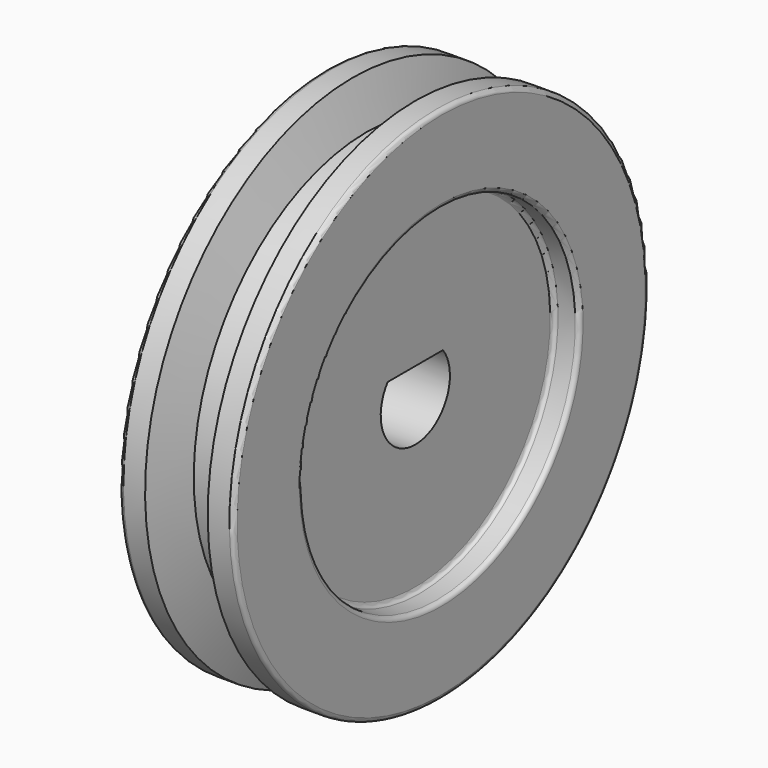
from build123d import *

# Parameters (mm, degrees)
F4_DEPTH = 9.1948


with BuildPart() as f2:
    # F0 (on Front) → F2 (revolve)
    with BuildSketch(Plane.XZ):
        with BuildLine():
            Line((-4.5974, 24.765), (-4.5974, 0))
            Line((-4.5974, 0), (4.5974, 0))
            Line((4.5974, 0), (4.5974, 24.765))
            ThreePointArc((4.5974, 24.765), (4.783387, 25.214013), (5.2324, 25.4))
            Line((5.2324, 25.4), (7.7724, 25.4))
            ThreePointArc((7.7724, 25.4), (8.221413, 25.585987), (8.4074, 26.035))
            Line((8.4074, 26.035), (8.4074, 37.465))
            ThreePointArc((8.4074, 37.465), (8.221413, 37.914013), (7.7724, 38.1))
            Line((7.7724, 38.1), (4.5974, 38.1))
            Line((4.5974, 38.1), (2.53416, 31.75))
            Line((2.53416, 31.75), (0.00584, 31.75))
            Line((0.00584, 31.75), (-0.00584, 31.75))
            Line((-0.00584, 31.75), (-2.53416, 31.75))
            Line((-2.53416, 31.75), (-4.5974, 38.1))
            Line((-4.5974, 38.1), (-7.7724, 38.1))
            ThreePointArc((-7.7724, 38.1), (-8.221413, 37.914013), (-8.4074, 37.465))
            Line((-8.4074, 37.465), (-8.4074, 26.035))
            ThreePointArc((-8.4074, 26.035), (-8.221413, 25.585987), (-7.7724, 25.4))
            Line((-7.7724, 25.4), (-5.2324, 25.4))
            ThreePointArc((-5.2324, 25.4), (-4.783387, 25.214013), (-4.5974, 24.765))
        make_face()
    revolve(axis=Axis((8.800593, 0, 0), (1, 0, 0)))

    # F3 (on face) → F4 (cut, through all)
    with BuildSketch(Plane.YZ.offset(4.5974)):
        with BuildLine():
            Line((5.08, 3.81), (-5.08, 3.81))
            ThreePointArc((-5.08, 3.81), (0, -6.35), (5.08, 3.81))
        make_face()
    extrude(amount=-F4_DEPTH, mode=Mode.SUBTRACT)


solid = f2.part
